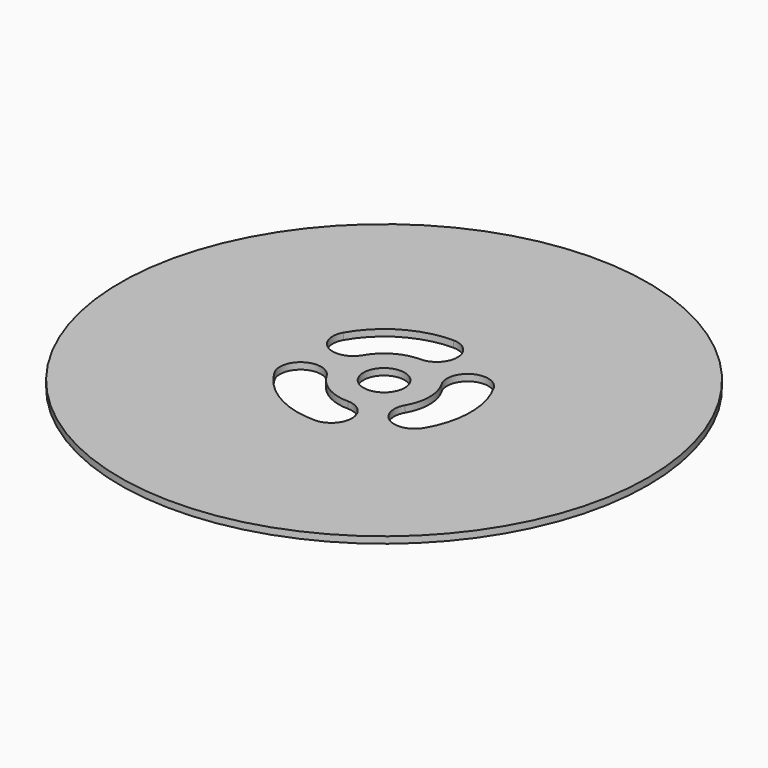
from build123d import *

# Parameters (mm, degrees)
F0_R     = 20
F0_R_2   = 1.5625
F1_DEPTH = 0.5


with BuildPart() as f1:
    # F0 (on Top) → F1 (new body)
    with BuildSketch(Plane.XY):
        Circle(F0_R)
        with BuildLine():
            ThreePointArc((-5.683292, -3.28125), (-5.111377, -1.146835), (-2.976962, -1.71875))
            ThreePointArc((-2.976962, -1.71875), (-1.71875, -2.976962), (0, -3.4375))
            ThreePointArc((0, -3.4375), (1.5625, -5), (0, -6.5625))
            ThreePointArc((0, -6.5625), (-3.28125, -5.683292), (-5.683292, -3.28125))
        make_face(mode=Mode.SUBTRACT)
        with BuildLine():
            ThreePointArc((0, 6.5625), (1.5625, 5), (0, 3.4375))
            ThreePointArc((0, 3.4375), (-1.71875, 2.976962), (-2.976962, 1.71875))
            ThreePointArc((-2.976962, 1.71875), (-5.111377, 1.146835), (-5.683292, 3.28125))
            ThreePointArc((-5.683292, 3.28125), (-3.28125, 5.683292), (0, 6.5625))
        make_face(mode=Mode.SUBTRACT)
        Circle(F0_R_2, mode=Mode.SUBTRACT)
        with BuildLine():
            ThreePointArc((5.683292, -3.28125), (3.548877, -3.853165), (2.976962, -1.71875))
            ThreePointArc((2.976962, -1.71875), (3.4375, 0), (2.976962, 1.71875))
            ThreePointArc((2.976962, 1.71875), (3.548877, 3.853165), (5.683292, 3.28125))
            ThreePointArc((5.683292, 3.28125), (6.5625, 0), (5.683292, -3.28125))
        make_face(mode=Mode.SUBTRACT)
    extrude(amount=F1_DEPTH)


solid = f1.part
